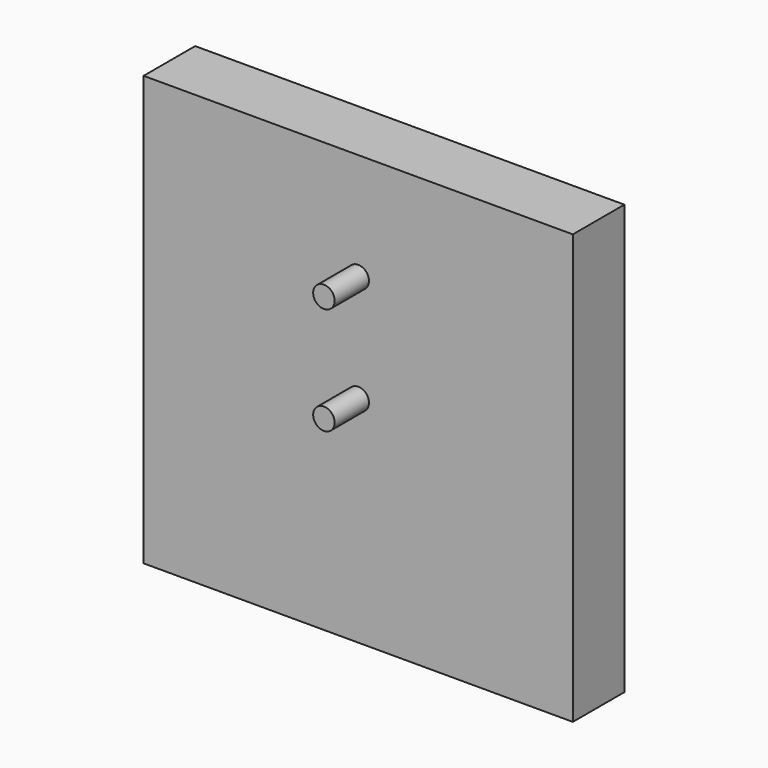
from build123d import *

# Parameters (mm, degrees)
F0_W     = 100
F0_H     = 100
F1_DEPTH = 15
F2_R     = 2.5
F3_DEPTH = 10


with BuildPart() as f1:
    # F0 (on Front) → F1 (new body)
    with BuildSketch(Plane.XZ):
        Rectangle(F0_W, F0_H)
    extrude(amount=-F1_DEPTH)

    # F2 (on face) → F3 (join)
    with BuildSketch(Plane.XZ):
        Circle(F2_R)
        with Locations((0, 25)):
            Circle(F2_R)
    extrude(amount=F3_DEPTH)


solid = f1.part
